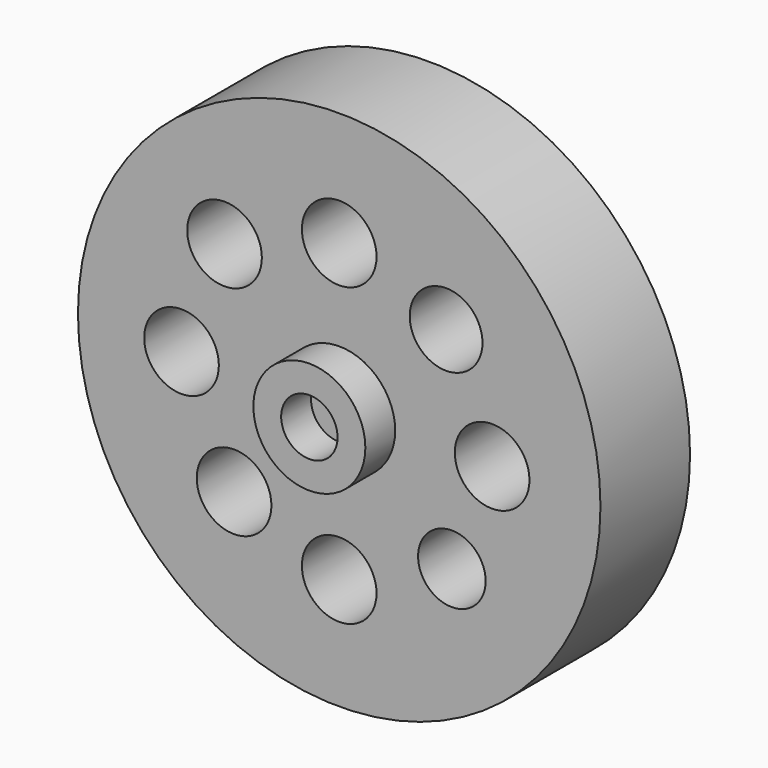
from build123d import *

# Parameters (mm, degrees)
F0_R     = 44.45
F1_DEPTH = 19.05
F2_R     = 6.35
F2_R_2   = 6.191887
F2_R_3   = 5.749023
F3_DEPTH = 25.4
F4_R     = 9.525
F4_R_2   = 4.796192
F5_DEPTH = 6.35


with BuildPart() as f1:
    # F0 (on Front) → F1 (new body)
    with BuildSketch(Plane.XZ):
        Circle(F0_R)
    extrude(amount=F1_DEPTH)

    # F2 (on face) → F3 (cut)
    with BuildSketch(Plane.XZ.offset(19.05)):
        with Locations((0, 25.000811)):
            Circle(F2_R)
        with Locations((0, -25.407325)):
            Circle(F2_R)
        with Locations((26.017097, 0)):
            Circle(F2_R)
        with Locations((-26.830139, 0)):
            Circle(F2_R)
        with Locations((18.185616, 17.9583)):
            Circle(F2_R_2)
        with Locations((19.16673, -17.569499)):
            Circle(F2_R_3)
        with Locations((-17.886758, -18.090015)):
            Circle(F2_R)
        with Locations((-19.512825, 18.496535)):
            Circle(F2_R)
    extrude(amount=-F3_DEPTH, mode=Mode.SUBTRACT)

    # F4 (on face) → F5 (join)
    with BuildSketch(Plane.XZ.offset(19.05)):
        Circle(F4_R)
        Circle(F4_R_2, mode=Mode.SUBTRACT)
    extrude(amount=F5_DEPTH)


solid = f1.part
